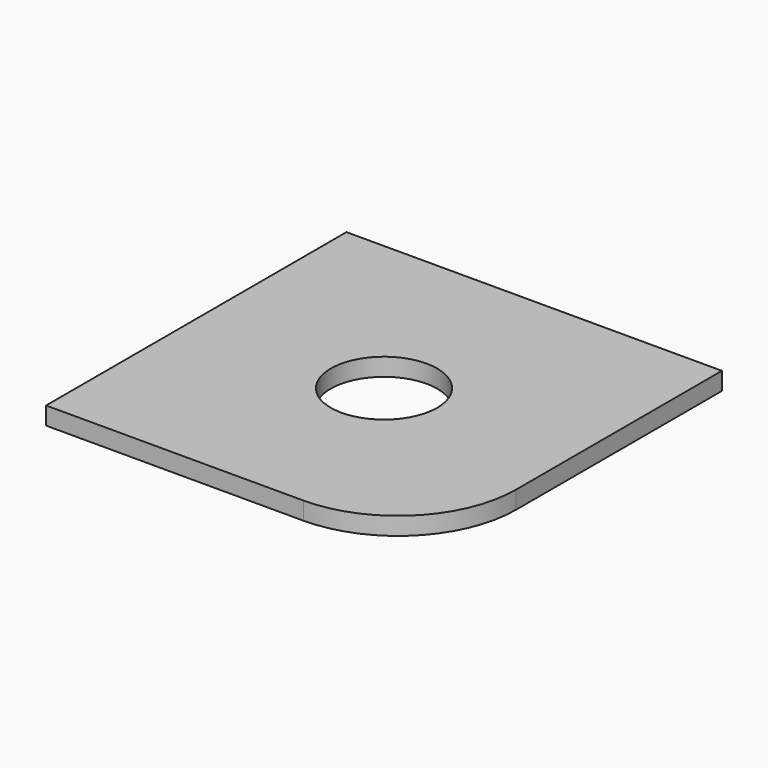
from build123d import *

# Parameters (mm, degrees)
F0_R     = 9
F1_DEPTH = 3


with BuildPart() as f1:
    # F0 (on Top) → F1 (new body)
    with BuildSketch(Plane.XY):
        with BuildLine():
            Line((36.420635, 22.631107), (-27.079365, 22.631107))
            Line((-27.079365, 22.631107), (-27.079365, -40.868893))
            Line((-27.079365, -40.868893), (16.420635, -40.868893))
            ThreePointArc((16.420635, -40.868893), (30.56277, -35.011028), (36.420635, -20.868893))
            Line((36.420635, -20.868893), (36.420635, 22.631107))
        make_face()
        with Locations((4.670635, -9.118893)):
            Circle(F0_R, mode=Mode.SUBTRACT)
    extrude(amount=F1_DEPTH)


solid = f1.part
